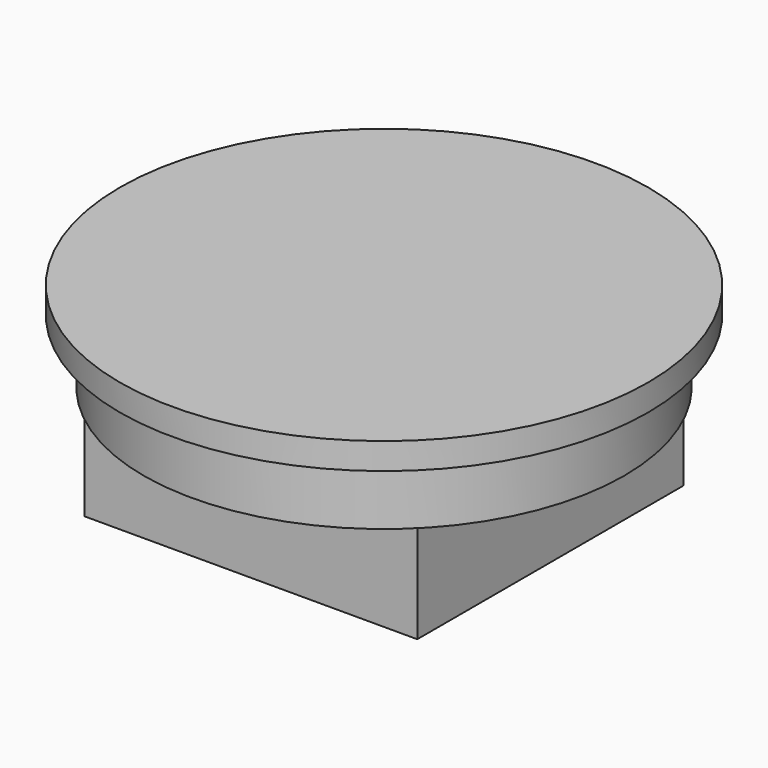
from build123d import *

# Parameters (mm, degrees)
SKETCH042_R  = 25
PAD014_DEPTH = 2.5
SKETCH043_R  = 22.75
PAD015_DEPTH = 6
SKETCH044_W  = 31.5
SKETCH044_H  = 31.5
PAD016_DEPTH = 9.5


with BuildPart() as part:
    # Sketch042 → Pad014 (new body)
    with BuildSketch(Plane.XY):
        Circle(SKETCH042_R)
    extrude(amount=PAD014_DEPTH)

    # Sketch043 (on Face2 of Pad014) → Pad015 (join)
    with BuildSketch(Plane(origin=(0, 0, 0), x_dir=(1, 0, 0), z_dir=(0, 0, -1))):
        Circle(SKETCH043_R)
    extrude(amount=PAD015_DEPTH)

    # Sketch044 (on Face5 of Pad015) → Pad016 (join)
    with BuildSketch(Plane(origin=(0, 0, -6), x_dir=(1, 0, 0), z_dir=(0, 0, -1))):
        Rectangle(SKETCH044_W, SKETCH044_H)
    extrude(amount=PAD016_DEPTH)


with BuildPart() as part_1:
    # Body008 placement: moved
    add(part.part.moved(Location((41, 50, -2))))


solid = part_1.part
